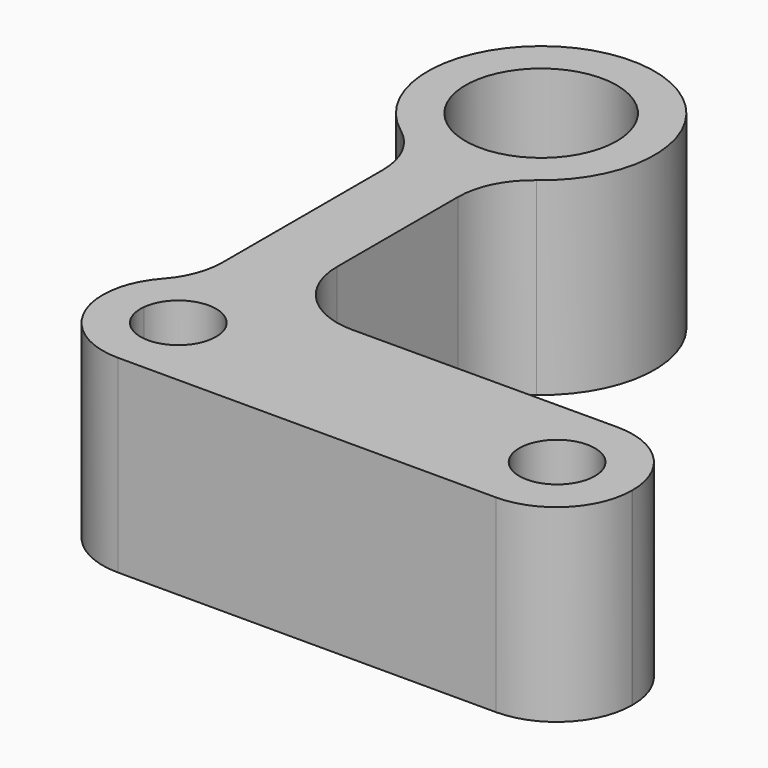
from build123d import *

# Parameters (mm, degrees)
F0_R     = 5
F0_R_2   = 10
F1_DEPTH = 25


with BuildPart() as f1:
    # F0 (on Top) → F1 (new body)
    with BuildSketch(Plane.XY):
        with BuildLine():
            ThreePointArc((-50.8534214017, -39.9596782029), (-47.9244892136, -47.0307460147), (-40.8534214017, -49.9596782029))
            Line((-40.8534214017, -49.9596782029), (9.1465785983, -49.9596782029))
            ThreePointArc((9.1465785983, -49.9596782029), (16.2176464101, -47.0307460147), (19.1465785983, -39.9596782029))
            Line((19.1465785983, -39.9596782029), (19.1465785983, -39.8566421126))
            ThreePointArc((19.1465785983, -39.8566421126), (16.2123850696, -32.7803168721), (9.1317028164, -29.8566531771))
            Line((9.1317028164, -29.8566531771), (-25.8534214017, -29.9596782029))
            ThreePointArc((-25.8534214017, -29.9596782029), (-25.8828695118, -29.9597215625), (-25.912317622, -29.9596782029))
            ThreePointArc((-25.912317622, -29.9596782029), (-32.9643411492, -27.0203702189), (-35.8828695118, -19.9597215625))
            Line((-35.8828695118, -19.9597215625), (-35.8828695118, 0.0403217971))
            ThreePointArc((-35.8828695118, 0.0403217971), (-34.8271414218, 4.5124577521), (-31.8828695118, 8.0403217971))
            ThreePointArc((-31.8828695118, 8.0403217971), (-40.9442856025, 35.0401960654), (-49.7843028356, 7.967025446))
            ThreePointArc((-49.7843028356, 7.967025446), (-46.7927055206, 4.4268811619), (-45.7185917182, -0.0818387881))
            Line((-45.7185917182, -0.0818387881), (-45.7185917182, -26.5795918256))
            ThreePointArc((-45.7185917182, -26.5795918256), (-46.382483011, -30.1624781214), (-48.2860065599, -33.2696350142))
            ThreePointArc((-48.2860065599, -33.2696350142), (-50.1895301088, -36.376791907), (-50.8534214017, -39.9596782029))
        make_face()
        with BuildLine():
            ThreePointArc((-45.8239732916, -39.4178166799), (-40.5820908371, -34.9670456583), (-35.8534214017, -39.9596782029))
            ThreePointArc((-35.8534214017, -39.9596782029), (-41.1247519664, -44.9523107474), (-45.8239732916, -39.4178166799))
        make_face(mode=Mode.SUBTRACT)
        with Locations((9.1465785983, -39.8566421126)):
            Circle(F0_R, mode=Mode.SUBTRACT)
        with Locations((-40.8828695118, 20.0403217971)):
            Circle(F0_R_2, mode=Mode.SUBTRACT)
    extrude(amount=F1_DEPTH)


solid = f1.part
